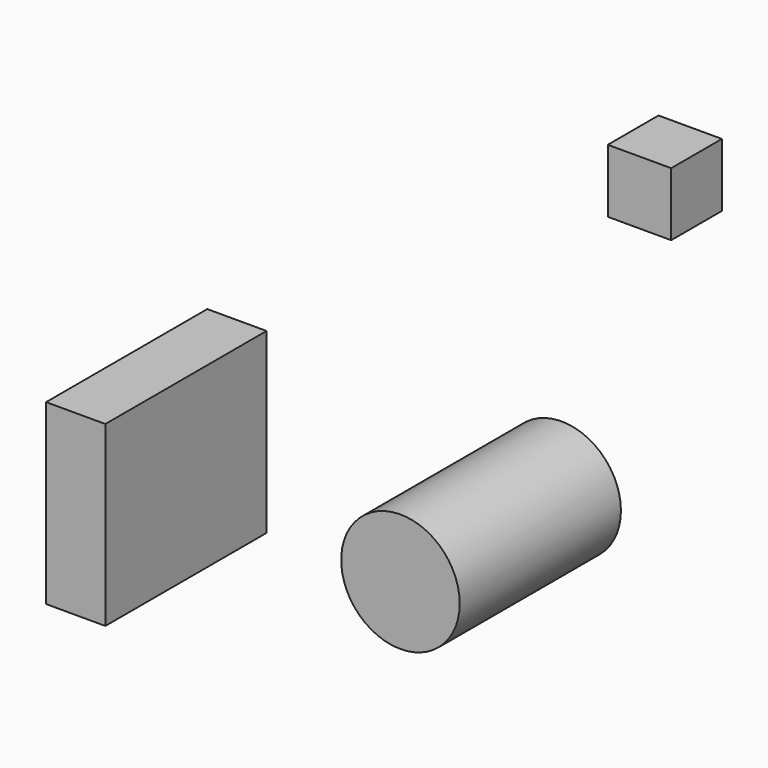
from build123d import *

# Parameters (mm, degrees)
F0_R     = 10
F0_W     = 10
F0_H     = 30
F1_DEPTH = 34
F2_W     = 10.7
F2_H     = 10.7
F3_DEPTH = 10.7


with BuildPart() as f1:
    # F0 (on Front) → F1 (new body)
    with BuildSketch(Plane.XZ):
        Circle(F0_R)
        with Locations((-54.793223, -7.761341)):
            Rectangle(F0_W, F0_H)
    extrude(amount=F1_DEPTH)


with BuildPart() as f3:
    # F2 (on Front) → F3 (new body)
    with BuildSketch(Plane.XZ):
        with Locations((21.691086, 55.402004)):
            Rectangle(F2_W, F2_H)
    extrude(amount=F3_DEPTH)


solid = Compound([f1.part, f3.part])
